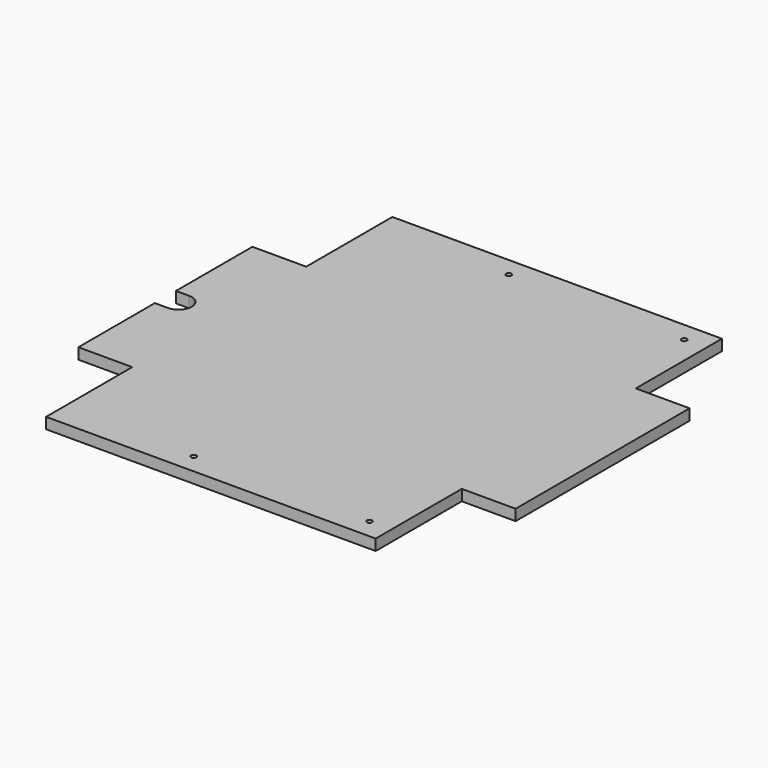
from build123d import *

# Parameters (mm, degrees)
F0_R     = 6
F1_DEPTH = 25


with BuildPart() as f1:
    # F0 (on Top) → F1 (new body)
    with BuildSketch(Plane.XY):
        with BuildLine():
            Line((122.5, 245), (122.5, 0))
            Line((122.5, 0), (872.5, 0))
            Line((872.5, 0), (872.5, 245))
            Line((872.5, 245), (995, 245))
            Line((995, 245), (995, 740))
            Line((995, 740), (872.5, 740))
            Line((872.5, 740), (872.5, 985))
            Line((872.5, 985), (122.5, 985))
            Line((122.5, 985), (122.5, 740))
            Line((122.5, 740), (0, 740))
            Line((0, 740), (0, 522.5))
            Line((0, 522.5), (30, 522.5))
            ThreePointArc((30, 522.5), (60, 492.5), (30, 462.5))
            Line((30, 462.5), (0, 462.5))
            Line((0, 462.5), (0, 245))
            Line((0, 245), (122.5, 245))
        make_face()
        with Locations((422.5, 45)):
            Circle(F0_R, mode=Mode.SUBTRACT)
        with Locations((822.5, 45)):
            Circle(F0_R, mode=Mode.SUBTRACT)
        with Locations((422.5, 941.111329)):
            Circle(F0_R, mode=Mode.SUBTRACT)
        with Locations((822.5, 940)):
            Circle(F0_R, mode=Mode.SUBTRACT)
    extrude(amount=F1_DEPTH)


solid = f1.part
